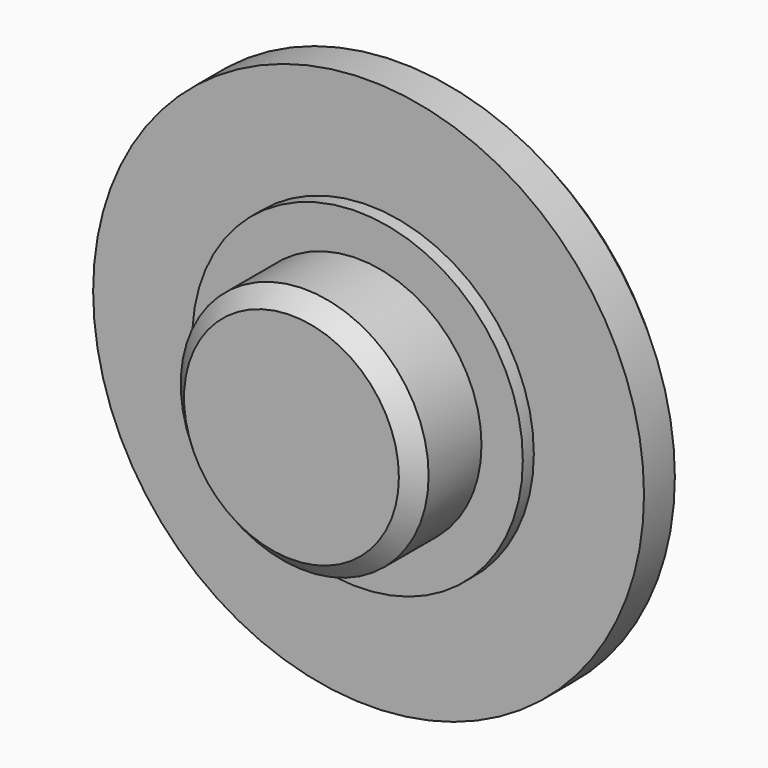
from build123d import *

# Parameters (mm, degrees)
F0_R     = 10
F1_DEPTH = 2
F2_R     = 4.5
F3_DEPTH = 3.5
F5_R     = 6
F6_DEPTH = 0.5
F7_SIZE  = 0.6


with BuildPart() as f1:
    # F0 (on Front) → F1 (new body)
    with BuildSketch(Plane.XZ):
        Circle(F0_R)
    extrude(amount=F1_DEPTH)

    # F2 (on face) → F3 (join)
    with BuildSketch(Plane.XZ.offset(2)):
        Circle(F2_R)
    extrude(amount=F3_DEPTH)

    # F5 (on face) → F6 (join)
    with BuildSketch(Plane.XZ.offset(2)):
        Circle(F5_R)
    extrude(amount=F6_DEPTH)

    # F7
    f7_edges = [f1.edges().sort_by_distance(p)[0] for p in [
        (-10, 0, 0),
        (-4.5, -5.5, 0),
    ]]
    chamfer(f7_edges, length=F7_SIZE)


solid = f1.part
